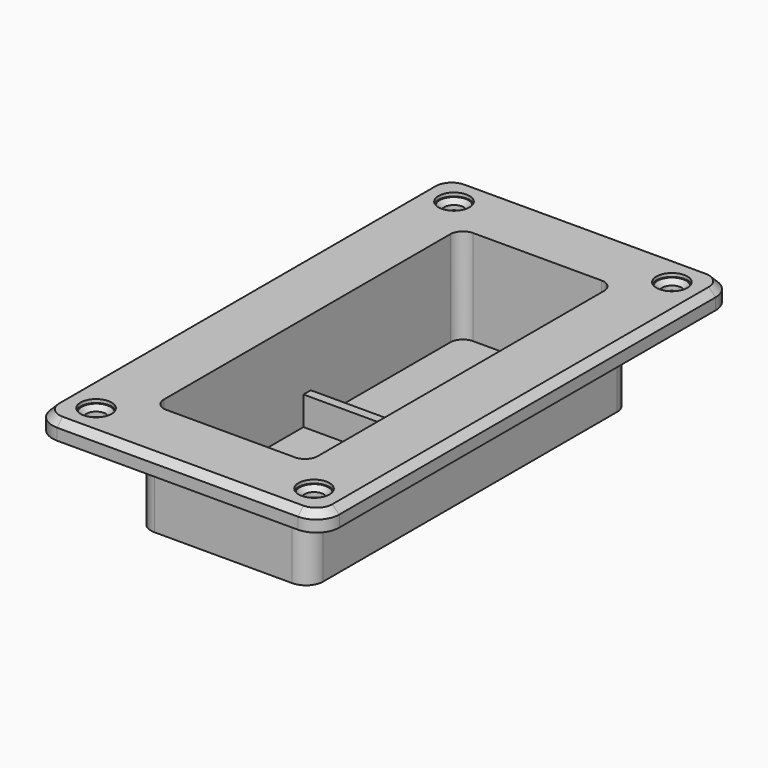
from build123d import *

# Parameters (mm, degrees)
PAD_DEPTH       = 3.2
PAD001_DEPTH    = 15.2
POCKET_DEPTH    = 16.6
SKETCH003_R     = 4.1
SKETCH003_R_2   = 1
SKETCH003_R_3   = 3.2
POCKET001_DEPTH = 1.8
SKETCH004_W     = 26.8
SKETCH004_H     = 1.6
PAD002_DEPTH    = 5
CHAMFER_SIZE    = 1.2
POCKET002_DEPTH = 1
SKETCH006_R     = 4.5
SKETCH006_R_2   = 1.7
PAD003_DEPTH    = 3.4
CHAMFER001_SIZE = 0.4
SKETCH007_R     = 1.7
POCKET003_DEPTH = 21.801
SKETCH008_R     = 2.7
POCKET004_DEPTH = 0.6
CHAMFER002_SIZE = 0.8
SKETCH009_R     = 4
POCKET005_DEPTH = 1
SKETCH010_R     = 3
SKETCH010_R_2   = 1.2
PAD004_DEPTH    = 1.6
CHAMFER003_SIZE = 0.4
CHAMFER004_SIZE = 0.8


with BuildPart() as part:
    # Sketch → Pad (new body)
    with BuildSketch(Plane.XY):
        with BuildLine():
            Line((-21, 45), (21, 45))
            ThreePointArc((25, 41), (23.828427, 43.828427), (21, 45))
            Line((25, 41), (25, -41))
            ThreePointArc((21, -45), (23.828427, -43.828427), (25, -41))
            Line((21, -45), (-21, -45))
            ThreePointArc((-25, -41), (-23.828427, -43.828427), (-21, -45))
            Line((-25, -41), (-25, 41))
            ThreePointArc((-21, 45), (-23.828427, 43.828427), (-25, 41))
        make_face()
    extrude(amount=PAD_DEPTH)

    # Sketch001 (on Face9 of Pad) → Pad001 (join)
    with BuildSketch(Plane(origin=(0, 0, 0), x_dir=(1, 0, 0), z_dir=(0, 0, -1))):
        with BuildLine():
            Line((-12, 35), (12, 35))
            ThreePointArc((15, 32), (14.12132, 34.12132), (12, 35))
            Line((15, 32), (15, -32))
            ThreePointArc((12, -35), (14.12132, -34.12132), (15, -32))
            Line((12, -35), (-12, -35))
            ThreePointArc((-15, -32), (-14.12132, -34.12132), (-12, -35))
            Line((-15, -32), (-15, 32))
            ThreePointArc((-12, 35), (-14.12132, 34.12132), (-15, 32))
        make_face()
    extrude(amount=PAD001_DEPTH)

    # Sketch002 (on Face5 of Pad001) → Pocket (cut)
    with BuildSketch(Plane.XY.offset(3.2)):
        with BuildLine():
            Line((-11.2, 33.4), (11.2, 33.4))
            ThreePointArc((13.4, 31.2), (12.755635, 32.755635), (11.2, 33.4))
            Line((13.4, 31.2), (13.4, -31.2))
            ThreePointArc((11.2, -33.4), (12.755635, -32.755635), (13.4, -31.2))
            Line((11.2, -33.4), (-11.2, -33.4))
            ThreePointArc((-13.4, -31.2), (-12.755635, -32.755635), (-11.2, -33.4))
            Line((-13.4, -31.2), (-13.4, 31.2))
            ThreePointArc((-11.2, 33.4), (-12.755635, 32.755635), (-13.4, 31.2))
        make_face()
    extrude(amount=-POCKET_DEPTH, mode=Mode.SUBTRACT)

    # Sketch003 (on Face28 of Pocket) → Pocket001 (cut)
    with BuildSketch(Plane.XY.offset(-13.4)):
        with Locations((0, -24)):
            Circle(SKETCH003_R)
        with Locations((0, -10)):
            Circle(SKETCH003_R_2)
        with Locations((0, 10)):
            Circle(SKETCH003_R_3)
        with Locations((0, 25)):
            Circle(SKETCH003_R_2)
    extrude(amount=-POCKET001_DEPTH, mode=Mode.SUBTRACT)

    # Sketch004 (on Face28 of Pocket001) → Pad002 (join)
    with BuildSketch(Plane.XY.offset(-13.4)):
        Rectangle(SKETCH004_W, SKETCH004_H)
    extrude(amount=PAD002_DEPTH)

    # Chamfer
    chamfer_edges = [part.edges().sort_by_distance(p)[0] for p in [
        (-23.828427, 43.828427, 3.2),
        (-25, 0, 3.2),
        (0, 45, 3.2),
        (23.828427, 43.828427, 3.2),
        (25, 0, 3.2),
        (-23.828427, -43.828427, 3.2),
        (0, -45, 3.2),
        (23.828427, -43.828427, 3.2),
    ]]
    chamfer(chamfer_edges, length=CHAMFER_SIZE)

    # Sketch005 (on Face35 of Chamfer) → Pocket002 (cut)
    with BuildSketch(Plane(origin=(0, 0, -15.2), x_dir=(1, 0, 0), z_dir=(0, 0, -1))):
        with BuildLine():
            ThreePointArc((0.6, -17.1), (1.3, -16.4), (0.6, -15.7))
            Line((0.6, -15.7), (-0.6, -15.7))
            ThreePointArc((-0.6, -15.7), (-1.3, -16.4), (-0.6, -17.1))
            Line((-0.6, -17.1), (0.6, -17.1))
        make_face()
    extrude(amount=-POCKET002_DEPTH, mode=Mode.SUBTRACT)

    # Sketch006 (on Face35 of Pocket002) → Pad003 (join)
    with BuildSketch(Plane(origin=(0, 0, -15.2), x_dir=(1, 0, 0), z_dir=(0, 0, -1))):
        with Locations((0, 10)):
            Circle(SKETCH006_R)
        with Locations((0, 10)):
            Circle(SKETCH006_R_2, mode=Mode.SUBTRACT)
        with Locations((0, -25)):
            Circle(SKETCH006_R)
        with Locations((0, -25)):
            Circle(SKETCH006_R_2, mode=Mode.SUBTRACT)
    extrude(amount=PAD003_DEPTH)

    # Chamfer001
    chamfer001_edges = [part.edges().sort_by_distance(p)[0] for p in [
        (-1, 25, -15.2),
        (-1, -10, -15.2),
    ]]
    chamfer(chamfer001_edges, length=CHAMFER001_SIZE)

    # Sketch007 (on Face13 of Chamfer001) → Pocket003 (cut, through all)
    with BuildSketch(Plane.XY.offset(3.2)):
        with Locations((-19, 39)):
            Circle(SKETCH007_R)
        with Locations((19, 39)):
            Circle(SKETCH007_R)
        with Locations((-19, -39)):
            Circle(SKETCH007_R)
        with Locations((19, -39)):
            Circle(SKETCH007_R)
    extrude(amount=-POCKET003_DEPTH, mode=Mode.SUBTRACT)

    # Sketch008 (on Face13 of Pocket003) → Pocket004 (cut)
    with BuildSketch(Plane.XY.offset(3.2)):
        with Locations((-19, 39)):
            Circle(SKETCH008_R)
        with Locations((19, 39)):
            Circle(SKETCH008_R)
        with Locations((-19, -39)):
            Circle(SKETCH008_R)
        with Locations((19, -39)):
            Circle(SKETCH008_R)
    extrude(amount=-POCKET004_DEPTH, mode=Mode.SUBTRACT)

    # Chamfer002
    chamfer002_edges = [part.edges().sort_by_distance(p)[0] for p in [
        (-20.7, 39, 2.6),
        (17.3, 39, 2.6),
        (17.3, -39, 2.6),
        (-20.7, -39, 2.6),
    ]]
    chamfer(chamfer002_edges, length=CHAMFER002_SIZE)

    # Sketch009 (on Face6 of Chamfer002) → Pocket005 (cut)
    with BuildSketch(Plane(origin=(0, 0, 0), x_dir=(1, 0, 0), z_dir=(0, 0, -1))):
        with Locations((-19, 39)):
            Circle(SKETCH009_R)
        with Locations((19, 39)):
            Circle(SKETCH009_R)
        with Locations((-19, -39)):
            Circle(SKETCH009_R)
        with Locations((19, -39)):
            Circle(SKETCH009_R)
    extrude(amount=-POCKET005_DEPTH, mode=Mode.SUBTRACT)

    # Sketch010 (on Face38 of Pocket005) → Pad004 (join)
    with BuildSketch(Plane.XY.offset(-13.4)):
        with Locations((0, 25)):
            Circle(SKETCH010_R)
        with Locations((0, 25)):
            Circle(SKETCH010_R_2, mode=Mode.SUBTRACT)
        with Locations((0, -10)):
            Circle(SKETCH010_R)
        with Locations((0, -10)):
            Circle(SKETCH010_R_2, mode=Mode.SUBTRACT)
    extrude(amount=PAD004_DEPTH)

    # Chamfer003
    chamfer003_edges = [part.edges().sort_by_distance(p)[0] for p in [
        (-3, 25, -11.8),
        (-3, -10, -11.8),
    ]]
    chamfer(chamfer003_edges, length=CHAMFER003_SIZE)

    # Chamfer004
    chamfer004_edges = [part.edges().sort_by_distance(p)[0] for p in [
        (-1.2, 25, -11.8),
        (-1.2, -10, -11.8),
    ]]
    chamfer(chamfer004_edges, length=CHAMFER004_SIZE)


solid = part.part
